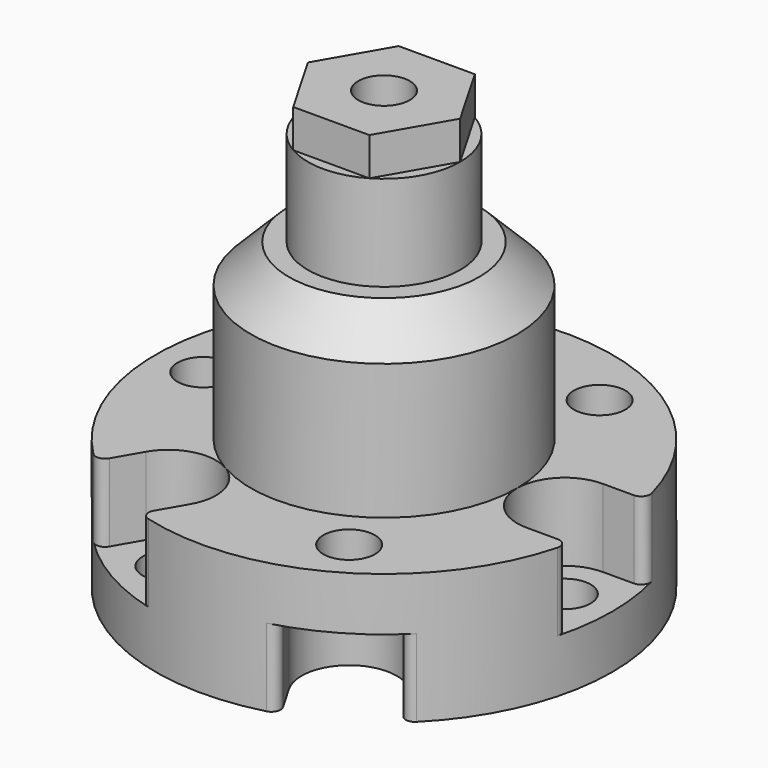
from build123d import *

# Parameters (mm, degrees)
F0_R      = 19.05
F0_R_2    = 2.15265
F1_DEPTH  = 10.922
F5_DEPTH  = 6.477
F7_DEPTH  = 6.477
F8_R      = 11.1125
F8_R_2    = 2.15265
F9_DEPTH  = 14.478
F10_R     = 6.35
F10_R_2   = 2.15265
F11_DEPTH = 7.9375
F12_R     = 2.15265
F13_DEPTH = 3.175
F14_R     = 0.762
F15_SIZE  = 3.175


with BuildPart() as f1:
    # F0 (on Top) → F1 (new body)
    with BuildSketch(Plane.XY):
        Circle(F0_R)
        with Locations((-7.540625, -13.060746)):
            Circle(F0_R_2, mode=Mode.SUBTRACT)
        with Locations((7.540625, -13.060746)):
            Circle(F0_R_2, mode=Mode.SUBTRACT)
        with Locations((-15.08125, 0)):
            Circle(F0_R_2, mode=Mode.SUBTRACT)
        with Locations((-7.540625, 13.060746)):
            Circle(F0_R_2, mode=Mode.SUBTRACT)
        Circle(F0_R_2, mode=Mode.SUBTRACT)
        with Locations((15.08125, 0)):
            Circle(F0_R_2, mode=Mode.SUBTRACT)
        with Locations((7.540625, 13.060746)):
            Circle(F0_R_2, mode=Mode.SUBTRACT)
    extrude(amount=F1_DEPTH)

    # F4 (on face) → F5 (cut, through all)
    with BuildSketch(Plane.XY.offset(10.922)):
        with BuildLine():
            Line((-6.087962, 18.482159), (-12.962038, 14.513409))
            Line((-12.962038, 14.513409), (-10.977663, 11.076371))
            ThreePointArc((-10.977663, 11.076371), (-5.55625, 9.623707), (-4.103587, 15.045121))
            Line((-4.103587, 15.045121), (-6.087962, 18.482159))
        make_face()
        with BuildLine():
            Line((19.05, 3.96875), (15.08125, 3.96875))
            ThreePointArc((15.08125, 3.96875), (11.1125, 0), (15.08125, -3.96875))
            Line((15.08125, -3.96875), (19.05, -3.96875))
            Line((19.05, -3.96875), (19.05, 3.96875))
        make_face()
        with BuildLine():
            Line((-10.977663, -11.076371), (-12.962038, -14.513409))
            Line((-12.962038, -14.513409), (-6.087962, -18.482159))
            Line((-6.087962, -18.482159), (-4.103587, -15.045121))
            ThreePointArc((-4.103587, -15.045121), (-5.55625, -9.623707), (-10.977663, -11.076371))
        make_face()
    extrude(amount=-F5_DEPTH, mode=Mode.SUBTRACT)

    # F6 (on face) → F7 (cut, through all)
    with BuildSketch(Plane(origin=(0, 0, 0), x_dir=(1, 0, 0), z_dir=(0, 0, -1))):
        with BuildLine():
            Line((4.103587, -15.045121), (6.087962, -18.482159))
            Line((6.087962, -18.482159), (12.962038, -14.513409))
            Line((12.962038, -14.513409), (10.977663, -11.076371))
            ThreePointArc((10.977663, -11.076371), (5.55625, -9.623707), (4.103587, -15.045121))
        make_face()
        with BuildLine():
            Line((12.962038, 14.513409), (6.087962, 18.482159))
            Line((6.087962, 18.482159), (4.103587, 15.045121))
            ThreePointArc((4.103587, 15.045121), (5.55625, 9.623707), (10.977663, 11.076371))
            Line((10.977663, 11.076371), (12.962038, 14.513409))
        make_face()
        with BuildLine():
            Line((-15.08125, 3.96875), (-19.05, 3.96875))
            Line((-19.05, 3.96875), (-19.05, -3.96875))
            Line((-19.05, -3.96875), (-15.08125, -3.96875))
            ThreePointArc((-15.08125, -3.96875), (-11.1125, 0), (-15.08125, 3.96875))
        make_face()
    extrude(amount=-F7_DEPTH, mode=Mode.SUBTRACT)

    # F8 (on face) → F9 (join)
    with BuildSketch(Plane.XY.offset(10.922)):
        Circle(F8_R)
        Circle(F8_R_2, mode=Mode.SUBTRACT)
    extrude(amount=F9_DEPTH)

    # F10 (on face) → F11 (join)
    with BuildSketch(Plane.XY.offset(25.4)):
        Circle(F10_R)
        Circle(F10_R_2, mode=Mode.SUBTRACT)
    extrude(amount=F11_DEPTH)

    # F12 (on face) → F13 (join)
    with BuildSketch(Plane.XY.offset(33.3375)):
        Polygon((3.175, 5.499261), (-3.175, 5.499261), (-6.35, 0), (-3.175, -5.499261), (3.175, -5.499261), (6.35, 0), align=None)
        Circle(F12_R, mode=Mode.SUBTRACT)
    extrude(amount=F13_DEPTH)

    # F14
    f14_edges = [f1.edges().sort_by_distance(p)[0] for p in [
        (-12.75304, -14.151413, 7.6835),
        (5.878963, -18.120163, 3.2385),
        (12.75304, -14.151413, 3.2385),
        (18.632003, 3.96875, 7.6835),
        (18.632003, -3.96875, 7.6835),
        (-5.878963, -18.120163, 7.6835),
        (12.75304, 14.151413, 3.2385),
        (5.878963, 18.120163, 3.2385),
        (-5.878963, 18.120163, 7.6835),
        (-12.75304, 14.151413, 7.6835),
        (-18.632003, 3.96875, 3.2385),
        (-18.632003, -3.96875, 3.2385),
    ]]
    fillet(f14_edges, radius=F14_R)

    # F15
    f15_edges = [f1.edges().sort_by_distance(p)[0] for p in [
        (-11.1125, 0, 25.4),
    ]]
    chamfer(f15_edges, length=F15_SIZE)


solid = f1.part
